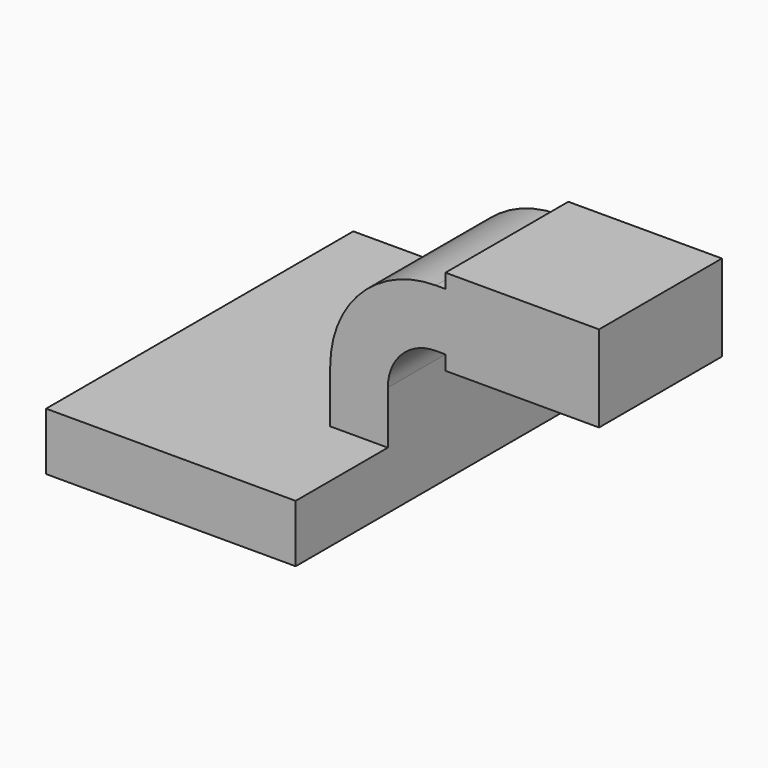
from build123d import *

# Parameters (mm, degrees)
F1_DEPTH = 63.5
F0_W     = 25.4
F0_H     = 19.05
F0_H_2   = 4.7498
F0_H_3   = 4.7752
F2_DEPTH = 25.4


with BuildPart() as f1:
    # F0 (on Front) → F1 (new body, symmetric)
    with BuildSketch(Plane.XZ):
        Polygon((22.225, 9.525), (-41.275, 9.525), (-41.275, -9.525), (41.275, -9.525), (41.275, 9.525), align=None)
    extrude(amount=F1_DEPTH, both=True)

    # F0 (on Front) → F2 (join, symmetric)
    with BuildSketch(Plane.XZ):
        with BuildLine():
            Line((22.225, 27.0002), (22.225, 9.525))
            Line((22.225, 9.525), (41.275, 9.525))
            Line((41.275, 9.525), (41.275, 27.0002))
            ThreePointArc((41.275, 27.0002), (45.9246798487, 38.2255201513), (57.15, 42.8752))
            Line((57.15, 42.8752), (60.325, 42.8752))
            Line((60.325, 42.8752), (60.325, 61.9252))
            Line((60.325, 61.9252), (57.15, 61.9252))
            ThreePointArc((57.15, 61.9252), (32.4542956671, 51.6959043329), (22.225, 27.0002))
        make_face()
        Polygon((85.725, 66.675), (85.725, 61.9252), (85.725, 42.8752), (85.725, 38.1), (111.125, 38.1), (111.125, 66.675), align=None)
        with Locations((73.025, 52.4002)):
            Rectangle(F0_W, F0_H)
        with Locations((73.025, 64.3001)):
            Rectangle(F0_W, F0_H_2)
        with Locations((73.025, 40.4876)):
            Rectangle(F0_W, F0_H_3)
    extrude(amount=F2_DEPTH, both=True)


solid = f1.part
